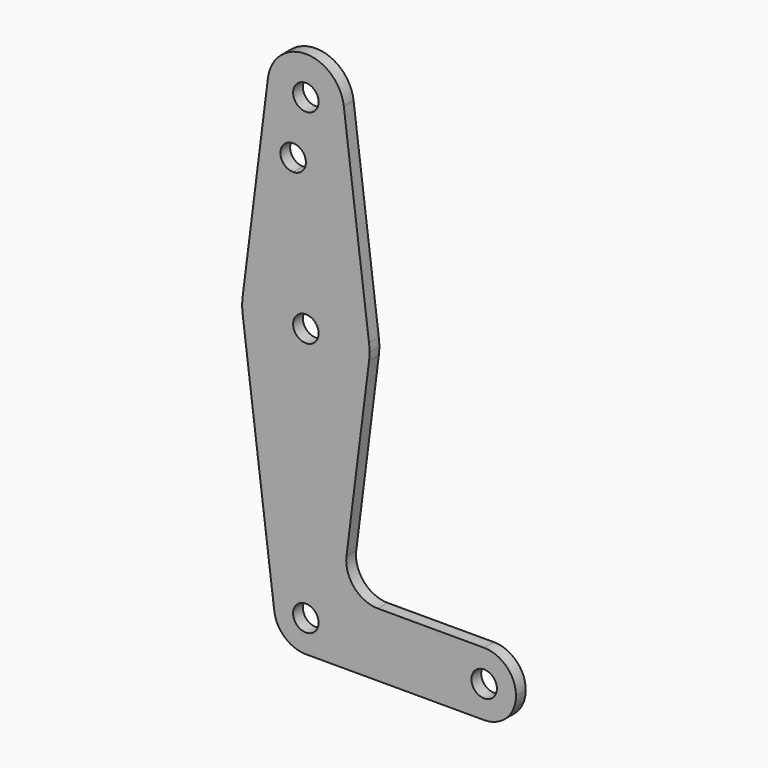
from build123d import *

# Parameters (mm, degrees)
F0_R     = 3.175
F1_DEPTH = 3.048


with BuildPart() as f1:
    # F0 (on Front) → F1 (new body)
    with BuildSketch(Plane.XZ):
        with BuildLine():
            ThreePointArc((0, -7.9375), (5.6126600757, -5.6126600757), (7.9375, 0))
            ThreePointArc((7.9375, 0), (-0.4970693683, 7.9219207452), (-7.8752441368, -0.9921875))
            ThreePointArc((-7.8752441368, -0.9921875), (-5.2501627579, -5.953125), (0, -7.9375))
        make_face()
        Circle(F0_R, mode=Mode.SUBTRACT)
        with BuildLine():
            ThreePointArc((-7.8752441368, -0.9921875), (-0.4970693683, 7.9219207452), (7.9375, 0))
            Line((7.9375, 0), (36.5125, 0))
            ThreePointArc((36.5125, 0), (38.8373399243, 5.6126600757), (44.45, 7.9375))
            Line((44.45, 7.9375), (18.0149584735, 7.9375))
            ThreePointArc((18.0149584735, 7.9375), (12.0523084735, 10.6291369817), (10.127113946, 16.881475))
            Line((10.127113946, 16.881475), (15.7504882737, 61.515625))
            ThreePointArc((15.7504882737, 61.515625), (0, 47.625), (-15.7504882737, 61.515625))
            Line((-15.7504882737, 61.515625), (-7.8752441368, -0.9921875))
        make_face()
        with BuildLine():
            Line((36.5125, 0), (7.9375, 0))
            ThreePointArc((7.9375, 0), (5.6126600757, -5.6126600757), (0, -7.9375))
            Line((0, -7.9375), (44.45, -7.9375))
            ThreePointArc((44.45, -7.9375), (38.8373399243, -5.6126600757), (36.5125, 0))
        make_face()
        with BuildLine():
            ThreePointArc((44.45, 7.9375), (38.8373399243, 5.6126600757), (36.5125, 0))
            ThreePointArc((36.5125, 0), (38.8373399243, -5.6126600757), (44.45, -7.9375))
            ThreePointArc((44.45, -7.9375), (50.0626600757, -5.6126600757), (52.3875, 0))
            ThreePointArc((52.3875, 0), (50.0626600757, 5.6126600757), (44.45, 7.9375))
        make_face()
        with BuildLine():
            ThreePointArc((47.625, 0), (44.45, -3.175), (41.275, 0))
            ThreePointArc((41.275, 0), (44.45, 3.175), (47.625, 0))
        make_face(mode=Mode.SUBTRACT)
        with BuildLine():
            ThreePointArc((-15.7504882737, 65.484375), (-15.875, 63.5), (-15.7504882737, 61.515625))
            ThreePointArc((-15.7504882737, 61.515625), (0, 47.625), (15.7504882737, 61.515625))
            ThreePointArc((15.7504882737, 61.515625), (15.8438414904, 62.5058612634), (15.875, 63.5))
            ThreePointArc((15.875, 63.5), (15.8438414904, 64.4941387366), (15.7504882737, 65.484375))
            ThreePointArc((15.7504882737, 65.484375), (9.2504686451, 76.40133539), (-3.175, 79.0542598667))
            ThreePointArc((-3.175, 79.0542598667), (-11.6438383029, 74.2905817534), (-15.7504882737, 65.484375))
        make_face()
        with Locations((0, 63.5)):
            Circle(F0_R, mode=Mode.SUBTRACT)
        with BuildLine():
            Line((-9.4502929642, 115.490625), (-15.7504882737, 65.484375))
            ThreePointArc((-15.7504882737, 65.484375), (-11.6438383029, 74.2905817534), (-3.175, 79.0542598667))
            ThreePointArc((-3.175, 79.0542598667), (9.2504686451, 76.40133539), (15.7504882737, 65.484375))
            Line((15.7504882737, 65.484375), (9.4502929642, 115.490625))
            ThreePointArc((9.4502929642, 115.490625), (9.5063048942, 114.896483242), (9.525, 114.3))
            ThreePointArc((9.525, 114.3), (-0.596483242, 104.7936951058), (-9.4502929642, 115.490625))
        make_face()
        with BuildLine():
            ThreePointArc((0, 100.0252), (-0.9299359697, 97.7801359697), (-3.175, 96.8502))
            ThreePointArc((-3.175, 96.8502), (-5.4200640303, 102.2702640303), (0, 100.0252))
        make_face(mode=Mode.SUBTRACT)
        with BuildLine():
            ThreePointArc((9.4502929642, 115.490625), (0, 123.825), (-9.4502929642, 115.490625))
            ThreePointArc((-9.4502929642, 115.490625), (-0.596483242, 104.7936951058), (9.525, 114.3))
            ThreePointArc((9.525, 114.3), (9.5063048942, 114.896483242), (9.4502929642, 115.490625))
        make_face()
        with Locations((0, 114.3)):
            Circle(F0_R, mode=Mode.SUBTRACT)
    extrude(amount=F1_DEPTH)


solid = f1.part
